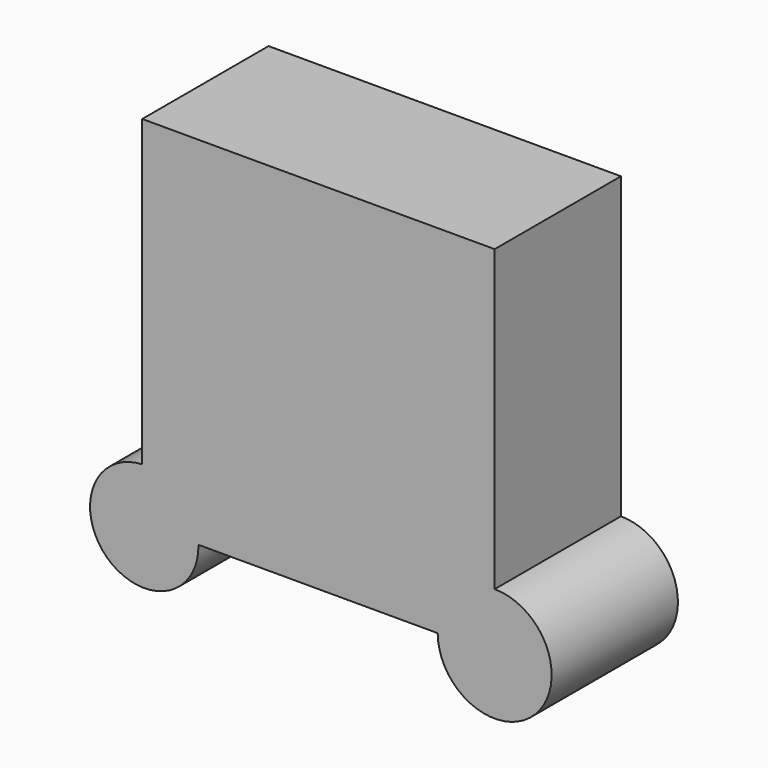
from build123d import *

# Parameters (mm, degrees)
F0_W     = 56.709073
F0_H     = 57.382157
F1_DEPTH = 25.4
F2_R     = 8.717495
F2_R_2   = 9.169361
F3_DEPTH = 25.4


with BuildPart() as f1:
    # F0 (on Front) → F1 (new body)
    with BuildSketch(Plane.XZ):
        with Locations((-28.354536, 3.497539)):
            Rectangle(F0_W, F0_H)
    extrude(amount=F1_DEPTH)

    # F2 (on Front) → F3 (join)
    with BuildSketch(Plane.XZ):
        with Locations((-56.388002, -25.4508)):
            Circle(F2_R)
        with Locations((0, -25.146002)):
            Circle(F2_R_2)
    extrude(amount=F3_DEPTH)


solid = f1.part
